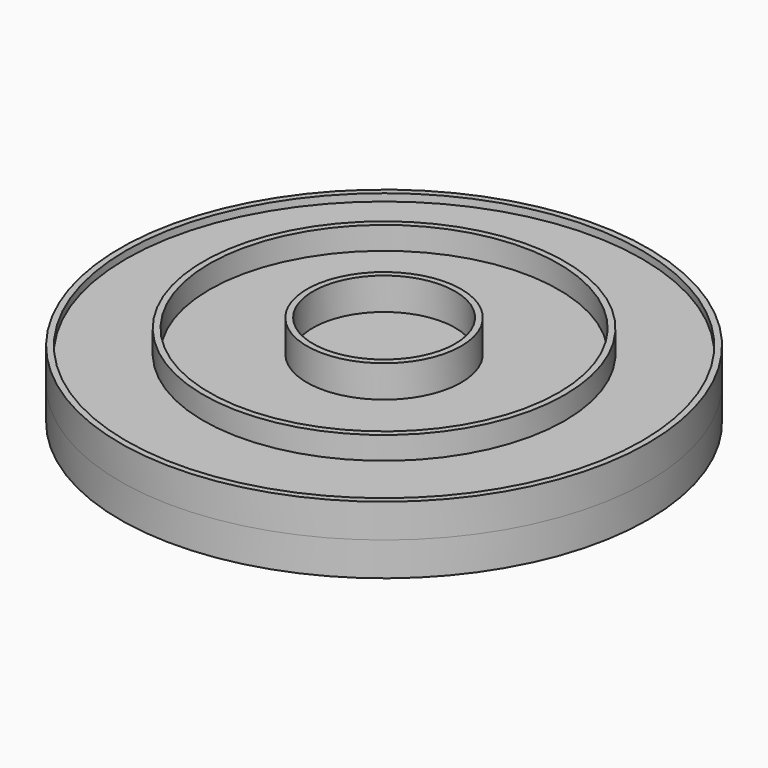
from build123d import *


with BuildPart() as f1:
    # F0 (on Front) → F1 (revolve)
    with BuildSketch(Plane.XZ):
        Polygon((0, 6.5), (0, 0), (65, 0), (65, 8.3), (63.5, 8.3), (63.5, 6.5), (44.5, 6.5), (44.5, 12.1), (43, 12.1), (43, 6.480602), (19, 6.480602), (19, 14.380602), (17.5, 14.4), (17.5, 6.5), align=None)
    revolve(axis=Axis((0, 0, 3.25), (0, 0, -1)))

    # F2: F1 across plane


with BuildPart() as f1_1:
    add(f1.part)
    add(f1.part.mirror(Plane.XY))


solid = f1_1.part
